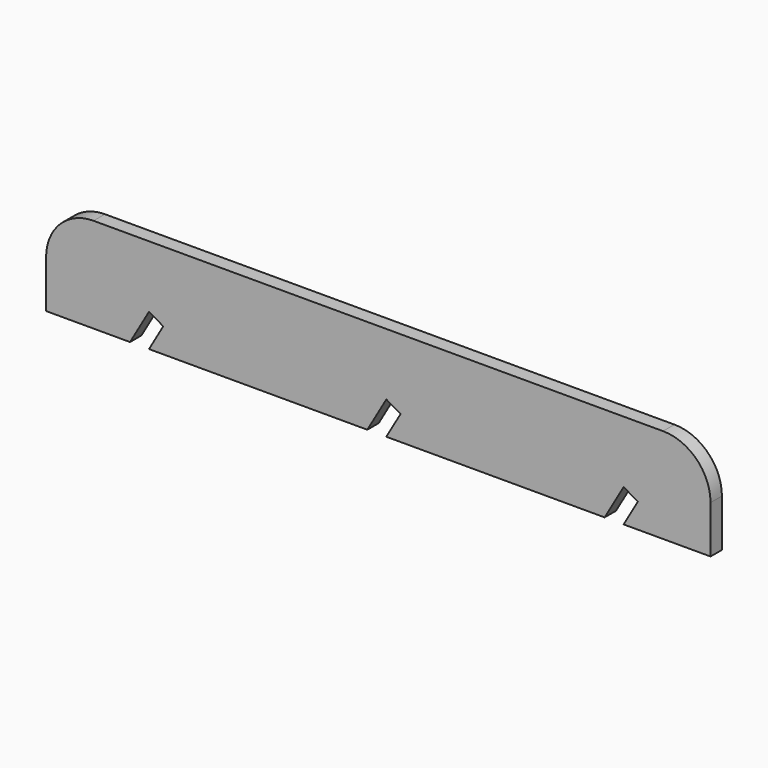
from build123d import *

# Parameters (mm, degrees)
F1_DEPTH = 3


with BuildPart() as f1:
    # F0 (on Front) → F1 (new body)
    with BuildSketch(Plane.XZ):
        with BuildLine():
            Line((51.6854279637, -10), (70, -10))
            Line((70, -10), (70, 0))
            ThreePointArc((70, 0), (67.0710678119, 7.0710678119), (60, 10))
            Line((60, 10), (-60, 10))
            ThreePointArc((-60, 10), (-67.0710678119, 7.0710678119), (-70, 0))
            Line((-70, 0), (-70, -10))
            Line((-70, -10), (-52.3145720363, -10))
            Line((-52.3145720363, -10), (-48.3056074854, -3.0562697122))
            Line((-48.3056074854, -3.0562697122), (-45.3145720363, -4.8038475773))
            Line((-45.3145720363, -4.8038475773), (-48.3145720363, -10))
            Line((-48.3145720363, -10), (-2.3145720363, -10))
            Line((-2.3145720363, -10), (1.6943925146, -3.0562697122))
            Line((1.6943925146, -3.0562697122), (4.6854279637, -4.8038475773))
            Line((4.6854279637, -4.8038475773), (1.6854279637, -10))
            Line((1.6854279637, -10), (47.6854279637, -10))
            Line((47.6854279637, -10), (51.6943925146, -3.0562697122))
            Line((51.6943925146, -3.0562697122), (54.6854279637, -4.8038475773))
            Line((54.6854279637, -4.8038475773), (51.6854279637, -10))
        make_face()
    extrude(amount=F1_DEPTH)


solid = f1.part
